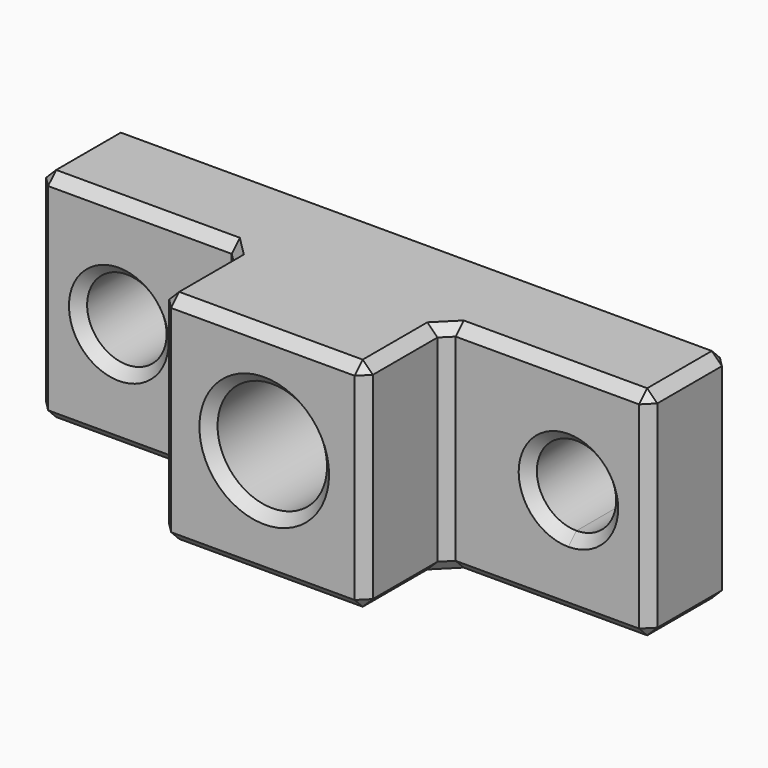
from build123d import *

# Parameters (mm, degrees)
F0_W      = 30.2609670907
F0_H      = 10.7729053125
F1_DEPTH  = 10
F2_W      = 10.0509477779
F2_H      = 10.7729053125
F3_DEPTH  = 5
F4_W      = 10.0912228227
F4_H      = 10.7729053125
F5_DEPTH  = 5
F6_W      = 10.084872134
F6_H      = 10.7729053125
F7_DEPTH  = 5
F8_R      = 2.7105464677
F9_DEPTH  = 25
F11_DEPTH = 25
F13_DEPTH = 25
F14_SIZE  = 0.5


with BuildPart() as f1:
    # F0 (on Front) → F1 (new body)
    with BuildSketch(Plane.XZ):
        with Locations((15.1304835454, -5.3864526562)):
            Rectangle(F0_W, F0_H)
    extrude(amount=F1_DEPTH)

    # F2 (on face) → F3 (join)
    with BuildSketch(Plane.XZ.offset(10)):
        with Locations((5.025473889, -5.3864526562)):
            Rectangle(F2_W, F2_H)
    extrude(amount=-F3_DEPTH)

    # F4 (on face) → F5 (cut)
    with BuildSketch(Plane.XZ.offset(10)):
        with Locations((5.0456114113, -5.3864526562)):
            Rectangle(F4_W, F4_H)
    extrude(amount=-F5_DEPTH, mode=Mode.SUBTRACT)

    # F6 (on face) → F7 (cut)
    with BuildSketch(Plane.XZ.offset(10)):
        with Locations((25.2185310237, -5.3864526562)):
            Rectangle(F6_W, F6_H)
    extrude(amount=-F7_DEPTH, mode=Mode.SUBTRACT)

    # F8 (on face) → F9 (cut)
    with BuildSketch(Plane.XZ.offset(10)):
        with Locations((15.200487338, -5.2238842472)):
            Circle(F8_R)
    extrude(amount=-F9_DEPTH, mode=Mode.SUBTRACT)

    # F10 (on face) → F11 (cut)
    with BuildSketch(Plane.XZ.offset(5)):
        with BuildLine():
            ThreePointArc((5.9674986844, -5.3864526562), (5.3912316617, -3.9952209945), (4, -3.4189539719))
            Line((4, -3.4189539719), (4, -7.3539513406))
            ThreePointArc((4, -7.3539513406), (5.3912316617, -6.7776843179), (5.9674986844, -5.3864526562))
        make_face()
        with BuildLine():
            Line((4, -7.3539513406), (4, -3.4189539719))
            ThreePointArc((4, -3.4189539719), (2.0325013156, -5.3864526562), (4, -7.3539513406))
        make_face()
    extrude(amount=-F11_DEPTH, mode=Mode.SUBTRACT)

    # F12 (on face) → F13 (cut)
    with BuildSketch(Plane.XZ.offset(5)):
        with BuildLine():
            ThreePointArc((28.2237478891, -5.3864526562), (27.6488627033, -3.9985570437), (26.2609670907, -3.4236718578))
            Line((26.2609670907, -3.4236718578), (26.2609670907, -7.3492334546))
            ThreePointArc((26.2609670907, -7.3492334546), (27.6488627033, -6.7743482688), (28.2237478891, -5.3864526562))
        make_face()
        with BuildLine():
            Line((26.2609670907, -7.3492334546), (26.2609670907, -3.4236718578))
            ThreePointArc((26.2609670907, -3.4236718578), (24.2981862923, -5.3864526562), (26.2609670907, -7.3492334546))
        make_face()
    extrude(amount=-F13_DEPTH, mode=Mode.SUBTRACT)

    # F14
    f14_edges = [f1.edges().sort_by_distance(p)[0] for p in [
        (12.489941, -10, -5.223884),
        (24.298186, -5, -5.386453),
        (2.032501, -5, -5.386453),
        (10.091223, -7.5, -10.772905),
        (10.091223, -7.5, 0),
        (10.091223, -10, -5.386453),
        (10.091223, -5, -5.386453),
        (15.130484, 0, -10.772905),
        (30.260967, -2.5, -10.772905),
        (25.218531, -5, -10.772905),
        (20.176095, -7.5, -10.772905),
        (15.133659, -10, -10.772905),
        (5.045611, -5, -10.772905),
        (0, -2.5, -10.772905),
        (0, 0, -5.386453),
        (0, -5, -5.386453),
        (0, -2.5, 0),
        (15.130484, 0, 0),
        (5.045611, -5, 0),
        (15.133659, -10, 0),
        (20.176095, -7.5, 0),
        (25.218531, -5, 0),
        (30.260967, -2.5, 0),
        (20.176095, -10, -5.386453),
        (20.176095, -5, -5.386453),
        (30.260967, 0, -5.386453),
        (30.260967, -5, -5.386453),
        (2.032501, 0, -5.386453),
        (24.298186, 0, -5.386453),
        (12.489941, 0, -5.223884),
    ]]
    chamfer(f14_edges, length=F14_SIZE)


solid = f1.part
